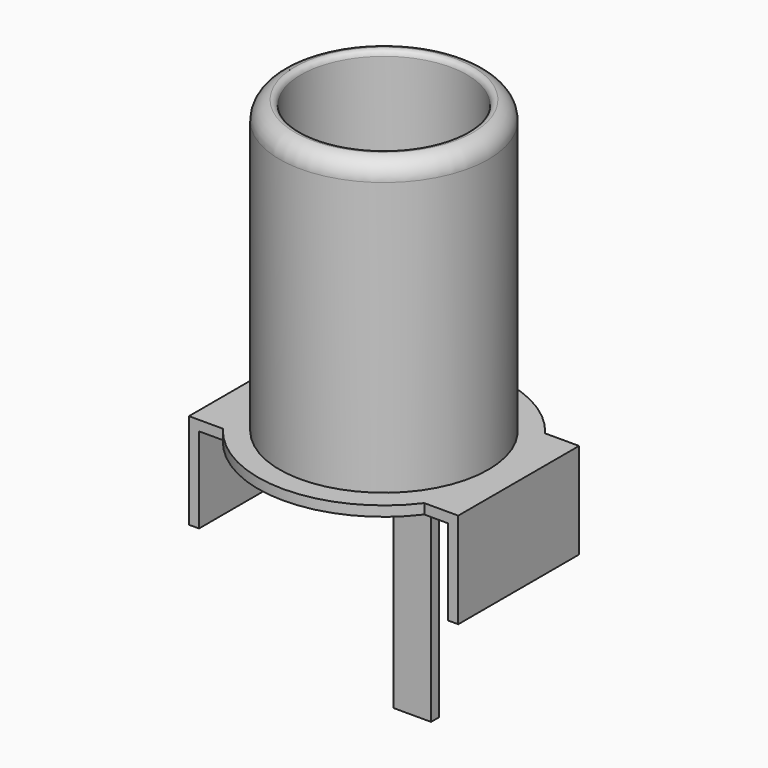
from build123d import *

# Parameters (mm, degrees)
BOX_W             = 10.7
BOX_H             = 6
BOX_DEPTH         = 0.4
CYLINDER_R        = 5
CYLINDER_DEPTH    = 0.4
CYLINDER001_R     = 4.15
CYLINDER001_DEPTH = 12
FILLET_R          = 0.75
CYLINDER002_R     = 3.3
CYLINDER002_DEPTH = 10
FILLET001_R       = 0.2
BOX001_W          = 1.5
BOX001_H          = 0.4
BOX001_DEPTH      = 10.1
BOX002_W          = 0.4
BOX002_H          = 6
BOX002_DEPTH      = 3.8
BOX003_W          = 0.4
BOX003_H          = 6
BOX003_DEPTH      = 3.8


with BuildPart() as part:
    # Box → Box (join)
    with BuildSketch(Plane(origin=(-5.35, -3, 0), x_dir=(1, 0, 0), z_dir=(0, 0, 1))):
        with Locations((5.35, 3)):
            Rectangle(BOX_W, BOX_H)
    extrude(amount=BOX_DEPTH)

    # Cylinder → Cylinder (join)
    with BuildSketch(Plane.XY):
        Circle(CYLINDER_R)
    extrude(amount=CYLINDER_DEPTH)

    # Cylinder001 → Cylinder001 (join)
    with BuildSketch(Plane.XY):
        Circle(CYLINDER001_R)
    extrude(amount=CYLINDER001_DEPTH)

    # Fillet
    fillet_edges = [part.edges().sort_by_distance(p)[0] for p in [
        (-4.15, 0, 12),
    ]]
    fillet(fillet_edges, radius=FILLET_R)

    # Cylinder002 → Cylinder002 (cut)
    with BuildSketch(Plane.XY.offset(2)):
        Circle(CYLINDER002_R)
    extrude(amount=CYLINDER002_DEPTH, mode=Mode.SUBTRACT)

    # Fillet001
    fillet001_edges = [part.edges().sort_by_distance(p)[0] for p in [
        (-3.3, 0, 12),
    ]]
    fillet(fillet001_edges, radius=FILLET001_R)

    # Box001 → Box001 (join)
    with BuildSketch(Plane(origin=(-0.75, 1.4, -10.1), x_dir=(1, 0, 0), z_dir=(0, 0, 1))):
        with Locations((0.75, 0.2)):
            Rectangle(BOX001_W, BOX001_H)
    extrude(amount=BOX001_DEPTH)

    # Box002 → Box002 (join)
    with BuildSketch(Plane(origin=(4.95, -3, -3.4), x_dir=(1, 0, 0), z_dir=(0, 0, 1))):
        with Locations((0.2, 3)):
            Rectangle(BOX002_W, BOX002_H)
    extrude(amount=BOX002_DEPTH)

    # Box003 → Box003 (join)
    with BuildSketch(Plane(origin=(-5.35, -3, -3.4), x_dir=(1, 0, 0), z_dir=(0, 0, 1))):
        with Locations((0.2, 3)):
            Rectangle(BOX003_W, BOX003_H)
    extrude(amount=BOX003_DEPTH)


solid = part.part
